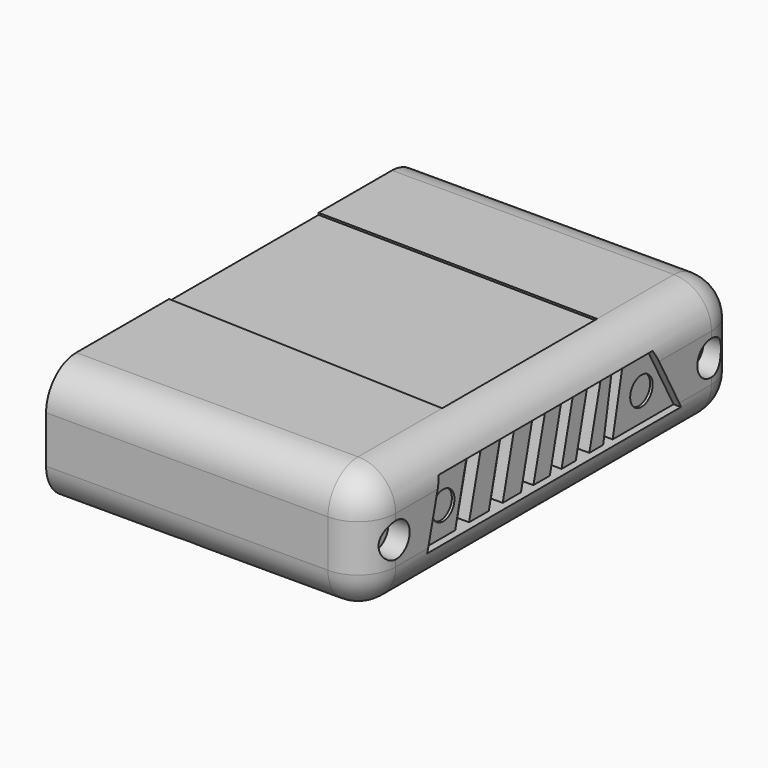
from build123d import *

# Parameters (mm, degrees)
F0_W      = 17
F0_H      = 25
F1_DEPTH  = 3.25
F3_DEPTH  = 29
F4_R      = 2
F5_R      = 2
F6_R      = 2
F7_R      = 2
F8_R      = 0.907486
F8_R_2    = 0.912689
F9_DEPTH  = 1.13
F11_DEPTH = 0.41
F12_R     = 0.75
F13_DEPTH = 0.14
F15_DEPTH = 0.63
F17_DEPTH = 0.1


with BuildPart() as f1:
    # F0 (on Top) → F1 (new body, symmetric)
    with BuildSketch(Plane.XY):
        Rectangle(F0_W, F0_H)
    extrude(amount=F1_DEPTH, both=True)

    # F2 (on face) → F3 (cut)
    with BuildSketch(Plane.XZ.offset(12.5)):
        with BuildLine():
            Line((-3.064445, -3.25), (0, -3.25))
            ThreePointArc((0, -3.25), (-1.532222, -2.787639), (-3.064445, -3.25))
        make_face()
    extrude(amount=-F3_DEPTH, mode=Mode.SUBTRACT)

    # F4
    f4_edges = [f1.edges().sort_by_distance(p)[0] for p in [
        (0, -12.5, 3.25),
    ]]
    fillet(f4_edges, radius=F4_R)

    # F5
    f5_edges = [f1.edges().sort_by_distance(p)[0] for p in [
        (0, 12.5, 3.25),
    ]]
    fillet(f5_edges, radius=F5_R)

    # F6
    f6_edges = [f1.edges().sort_by_distance(p)[0] for p in [
        (8.5, 0, 3.25),
    ]]
    fillet(f6_edges, radius=F6_R)

    # F7
    f7_edges = [f1.edges().sort_by_distance(p)[0] for p in [
        (8.5, 0, -3.25),
    ]]
    fillet(f7_edges, radius=F7_R)

    # F8 (on face) → F9 (cut)
    with BuildSketch(Plane.YZ.offset(8.5)):
        with Locations((-10.477439, 0)):
            Circle(F8_R)
        with Locations((10.476667, 0)):
            Circle(F8_R_2)
    extrude(amount=-F9_DEPTH, mode=Mode.SUBTRACT)

    # F10 (on face) → F11 (cut)
    with BuildSketch(Plane.YZ.offset(8.5)):
        Polygon((6.696667, 1.843333), (-7.56, 1.82), (-8.4, -1.493333), (8.493334, -1.493333), align=None)
    extrude(amount=-F11_DEPTH, mode=Mode.SUBTRACT)

    # F12 (on face) → F13 (cut)
    with BuildSketch(Plane.YZ.offset(8.09)):
        with Locations((-6.826031, 0)):
            Circle(F12_R)
        with Locations((6.358803, 0)):
            Circle(F12_R)
    extrude(amount=-F13_DEPTH, mode=Mode.SUBTRACT)

    # F14 (on face) → F15 (cut)
    with BuildSketch(Plane.YZ.offset(8.09)):
        Polygon((-4.277901, 1.825372), (-5.225895, 1.82382), (-6.027778, -1.493333), (-5.104167, -1.493333), align=None)
        Polygon((-2.061455, 1.843333), (-2.989631, 1.82748), (-3.792398, -1.493333), (-2.868056, -1.493333), align=None)
        Polygon((0, 1.82), (-0.850787, 1.830981), (-1.654401, -1.493333), (-0.826389, -1.493333), align=None)
        Polygon((1.848753, 1.830981), (1.069426, 1.834123), (0.265052, -1.493333), (1.045139, -1.493333), align=None)
        Polygon((3.697775, 1.838425), (2.795116, 1.836948), (1.990059, -1.493333), (2.892361, -1.493333), align=None)
        Polygon((3.81221, -1.493333), (4.443903, -1.493333), (5.128974, 1.840768), (4.401408, 1.839577), align=None)
    extrude(amount=-F15_DEPTH, mode=Mode.SUBTRACT)

    # F16 (on face) → F17 (cut)
    with BuildSketch(Plane.XY.offset(3.25)):
        Polygon((-8.5, -4.322258), (6.5, -4.90492), (6.5, 5.395623), (-8.5, 5.621705), align=None)
    extrude(amount=-F17_DEPTH, mode=Mode.SUBTRACT)


solid = f1.part
